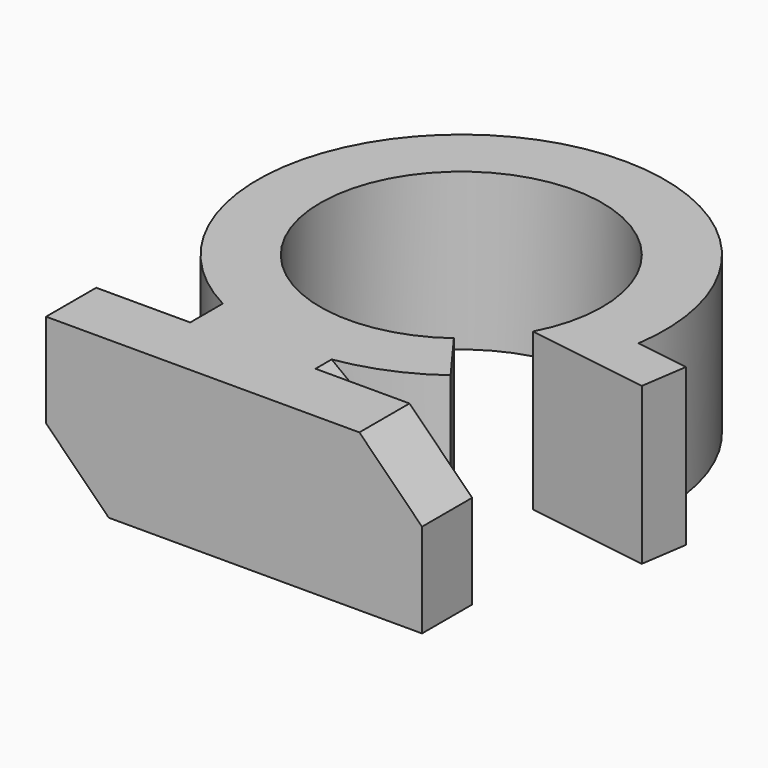
from build123d import *

# Parameters (mm, degrees)
PAD_DEPTH    = 5
CHAMFER_SIZE = 2


with BuildPart() as part:
    # Sketch → Pad (new body)
    with BuildSketch(Plane.XY):
        with BuildLine():
            ThreePointArc((6.427935, -0.965218), (-2.949616, 5.792216), (-3, -5.766281))
            Line((-3, -5.766281), (-3, -7.066281))
            Line((-3, -7.066281), (-6, -7.066281))
            Line((-6, -7.066281), (-6, -9.066281))
            Line((-6, -9.066281), (6, -9.066281))
            Line((6, -9.066281), (6, -7.066281))
            Line((6, -7.066281), (3, -7.066281))
            Line((3, -7.066281), (3, -5.766281))
            ThreePointArc((3, -5.766281), (3.434671, -5.518427), (3.848989, -5.23787))
            Line((3.848989, -5.23787), (2.664685, -3.626218))
            ThreePointArc((3.972861, -2.113381), (-3.403883, 2.943396), (2.664685, -3.626218))
            Line((3.972861, -2.113381), (7.928513, -2.707361))
            Line((7.928513, -2.707361), (8.151256, -1.223992))
            Line((8.151256, -1.223992), (6.427935, -0.965218))
        make_face()
    extrude(amount=PAD_DEPTH)

    # Chamfer
    chamfer_edges = [part.edges().sort_by_distance(p)[0] for p in [
        (6, -8.066281, 5),
        (3, -6.416281, 5),
        (-3, -6.416281, 0),
        (-6, -8.066281, 0),
    ]]
    chamfer(chamfer_edges, length=CHAMFER_SIZE)


solid = part.part
